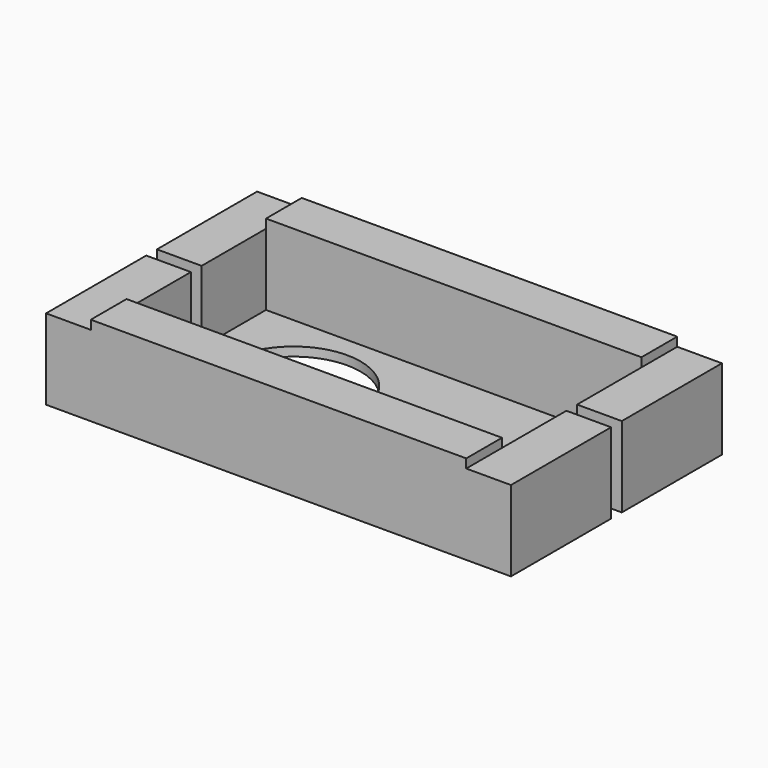
from build123d import *

# Parameters (mm, degrees)
F0_W     = 42
F0_H     = 19.5
F0_R     = 7.5
F1_DEPTH = 1
F2_W     = 42
F2_H     = 5
F3_DEPTH = 10
F4_DEPTH = 9


with BuildPart() as f1:
    # F0 (on Top) → F1 (new body)
    with BuildSketch(Plane.XY):
        Rectangle(F0_W, F0_H)
        Polygon((0.75, 8.25), (0.75, 0), (0.75, -8.25), (-18.5, -8.25), (-18.5, 8.25), align=None, mode=Mode.SUBTRACT)
        Polygon((0.75, -8.25), (0.75, 0), (0.75, 8.25), (-18.5, 8.25), (-18.5, -8.25), align=None)
        with Locations((-10.125, 0)):
            Circle(F0_R, mode=Mode.SUBTRACT)
    extrude(amount=F1_DEPTH)

    # F2 (on Top) → F3 (join)
    with BuildSketch(Plane.XY):
        with Locations((0, 12.25)):
            Rectangle(F2_W, F2_H)
        with Locations((0, -12.25)):
            Rectangle(F2_W, F2_H)
    extrude(amount=F3_DEPTH)

    # F2 (on Top) → F4 (join)
    with BuildSketch(Plane.XY):
        Polygon((-21, -9.75), (-21, -0.75), (-26, -0.75), (-26, -14.75), (-21, -14.75), align=None)
        Polygon((26, 14.75), (21, 14.75), (21, 9.75), (21, 0.75), (26, 0.75), align=None)
        Polygon((26, -0.75), (21, -0.75), (21, -9.75), (21, -14.75), (26, -14.75), align=None)
        Polygon((-21, 9.75), (-21, 14.75), (-26, 14.75), (-26, 0.75), (-21, 0.75), align=None)
    extrude(amount=F4_DEPTH)


solid = f1.part
